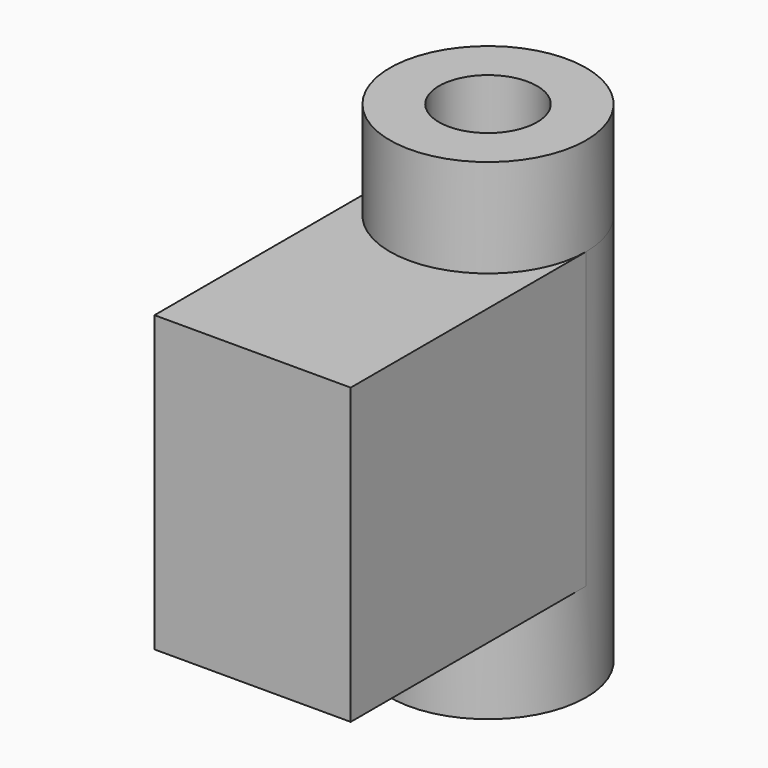
from build123d import *

# Parameters (mm, degrees)
F0_W     = 4.7625
F0_H     = 4.7625
F1_DEPTH = 3.175
F2_R     = 1.5875
F3_DEPTH = 6.35
F4_DEPTH = 1.5875
F5_R     = 0.79375
F6_DEPTH = 7.9385


with BuildPart() as f1:
    # F0 (on Right) → F1 (new body)
    with BuildSketch(Plane.YZ):
        Rectangle(F0_W, F0_H)
    extrude(amount=F1_DEPTH)

    # F2 (on face) → F3 (join)
    with BuildSketch(Plane.XY.offset(2.38125)):
        with Locations((1.5875, 2.38125)):
            Circle(F2_R)
    extrude(amount=-F3_DEPTH)

    # F2 (on face) → F4 (join)
    with BuildSketch(Plane.XY.offset(2.38125)):
        with Locations((1.5875, 2.38125)):
            Circle(F2_R)
    extrude(amount=F4_DEPTH)

    # F5 (on face) → F6 (cut, through all)
    with BuildSketch(Plane.XY.offset(3.96875)):
        with Locations((1.5875, 2.38125)):
            Circle(F5_R)
    extrude(amount=-F6_DEPTH, mode=Mode.SUBTRACT)


solid = f1.part
